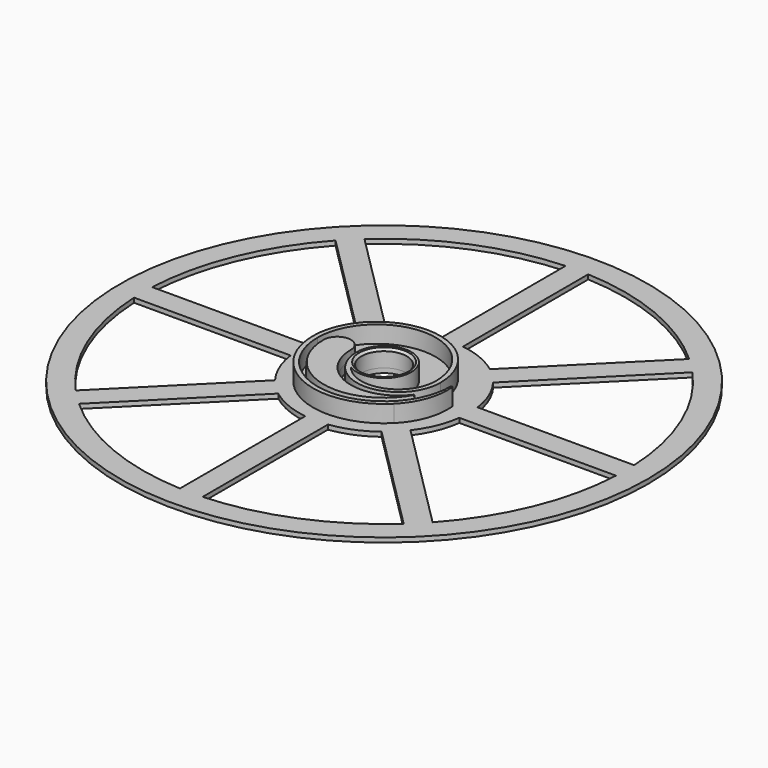
from build123d import *

# Parameters (mm, degrees)
SKETCH_R           = 93
PAD_DEPTH          = 1.6
POCKET_DEPTH       = 527.6981773351
POLARPATTERN_COUNT = 4
SKETCH003_R        = 8
POCKET001_DEPTH    = 1.601
SKETCH001_R        = 8
PAD001_DEPTH       = 6
CHAMFER002_SIZE2   = 0.2
CHAMFER002_SIZE    = 3
CHAMFER_SIZE       = 0.8


with BuildPart() as part:
    # Sketch → Pad (new body)
    with BuildSketch(Plane.XY):
        Circle(SKETCH_R)
    extrude(amount=PAD_DEPTH)

    # Sketch002 → Pocket (cut, through all)
    with BuildSketch(Plane.XY):
        with BuildLine():
            Line((-29.7321374946, 4), (-84.9058301885, 4))
            ThreePointArc((-62.8659154133, 57.2090611638), (-78.5297602635, 32.528091751), (-84.9058301885, 4))
            Line((-62.8659154133, 57.2090611638), (-23.8522231664, 18.1953689169))
            ThreePointArc((-23.8522231664, 18.1953689169), (-27.7163859753, 11.480502971), (-29.7321374946, 4))
        make_face()
        with BuildLine():
            Line((-18.1953689169, 23.8522231664), (-57.2090611638, 62.8659154133))
            ThreePointArc((-4, 84.9058301885), (-32.528091751, 78.5297602635), (-57.2090611638, 62.8659154133))
            Line((-4, 29.7321374946), (-4, 84.9058301885))
            ThreePointArc((-4, 29.7321374946), (-11.480502971, 27.7163859753), (-18.1953689169, 23.8522231664))
        make_face()
    pocket = extrude(amount=POCKET_DEPTH, mode=Mode.SUBTRACT)

    # PolarPattern: Pocket ×4 about axis
    polarpattern_axis = Axis((0, 0, 0), (0, 0, 1))
    for i in range(1, POLARPATTERN_COUNT):
        add(pocket.rotate(polarpattern_axis, i * 360 / POLARPATTERN_COUNT), mode=Mode.SUBTRACT)

    # Sketch003 → Pocket001 (cut, through all)
    with BuildSketch(Plane.XY.offset(1.6)):
        Circle(SKETCH003_R)
    extrude(amount=-POCKET001_DEPTH, mode=Mode.SUBTRACT)

    # Sketch001 → Pad001 (join)
    with BuildSketch(Plane.XY.offset(1.6)):
        with BuildLine():
            ThreePointArc((-23.4, 0), (0, -23.4), (23.4, 0))
            ThreePointArc((23.9970767333, 0), (23.6985383667, 0.2704222444), (23.4, 0))
            ThreePointArc((17.6776695297, -17.6776695297), (22.8235419267, -9.5488497004), (23.9970767333, 0))
            ThreePointArc((-25, 0), (-9.5670858091, -23.0969883128), (17.6776695297, -17.6776695297))
            ThreePointArc((19.8, 0), (-2.6, 22.4), (-25, 0))
            ThreePointArc((-9.6, 6e-10), (5.0999999997, -14.7000000003), (19.8, 0))
            ThreePointArc((-5.2392156863, -8.0442910808), (8.4396821797, 4.5751245563), (-9.6, 0))
            ThreePointArc((-5.2392156863, -8.0442910808), (9.3524272192, -12.3905957381), (18.2, 0))
            ThreePointArc((18.2, 0), (-2.6, 20.8), (-23.4, 0))
        make_face()
        Circle(SKETCH001_R, mode=Mode.SUBTRACT)
        with BuildLine():
            ThreePointArc((-11.5, 0), (-16.5, 5), (-21.5, 0))
            ThreePointArc((-21.5, 0), (-5.3119919625, -20.8334524597), (18.8751387339, -10.2946169319))
            ThreePointArc((18.8751387339, -10.2946169319), (18.7741114914, -9.8986944388), (18.3719108937, -9.9707763607))
            ThreePointArc((-11.5, 0), (-0.1557720255, -15.746010937), (18.3719108937, -9.9707763607))
        make_face()
    extrude(amount=PAD001_DEPTH)

    # Chamfer002
    chamfer002_edges = [part.edges().sort_by_distance(p)[0] for p in [
        (-5.311992, -20.833452, 7.6),
    ]]
    chamfer002_side = part.faces().sort_by_distance((-5.311992, -20.833452, 4.6))[0]
    chamfer(chamfer002_edges, length=CHAMFER002_SIZE, length2=CHAMFER002_SIZE2, reference=chamfer002_side)

    # Chamfer
    chamfer_edges = [part.edges().sort_by_distance(p)[0] for p in [
        (-8, 0, 7.6),
    ]]
    chamfer(chamfer_edges, length=CHAMFER_SIZE)


solid = part.part
